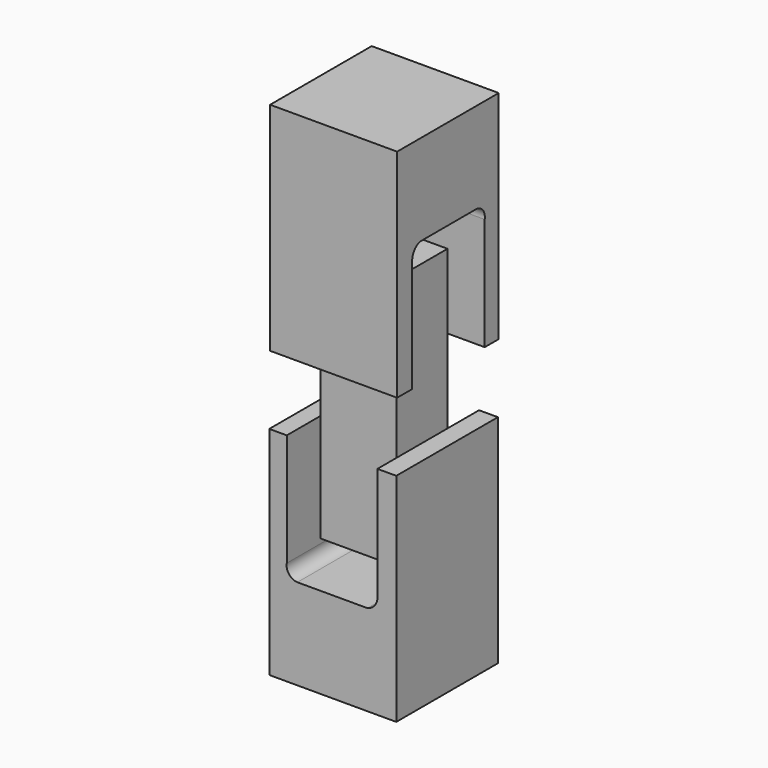
from build123d import *

# Parameters (mm, degrees)
PAD_DEPTH               = 15
SKETCH001_R             = 5
POCKET_DEPTH            = 15
SKETCH002_R             = 5
POCKET001_DEPTH         = 15
SKETCH003_W             = 30
SKETCH003_H             = 51.179278
PAD001_DEPTH            = 30
POCKET002_DEPTH         = 31
BODY001_PLACEMENT_ANGLE = 90
SKETCH005_W             = 30
SKETCH005_H             = 51.179278
PAD002_DEPTH            = 30
POCKET003_DEPTH         = 31
BODY002_PLACEMENT_ANGLE = 180


with BuildPart() as block:
    # Sketch → Pad (new body)
    with BuildSketch(Plane.XZ):
        Polygon((-10.5, 30), (7.5, 30), (7.5, 0), (7.5, -30), (-10.5, -30), align=None)
    extrude(amount=PAD_DEPTH)

    # Sketch001 → Pocket (cut)
    with BuildSketch(Plane.XZ):
        with Locations((-1.5, 22)):
            Circle(SKETCH001_R)
    extrude(amount=POCKET_DEPTH, mode=Mode.SUBTRACT)

    # Sketch002 → Pocket001 (cut, symmetric)
    with BuildSketch(Plane.YZ):
        with Locations((-7.5, -22)):
            Circle(SKETCH002_R)
    extrude(amount=POCKET001_DEPTH, both=True, mode=Mode.SUBTRACT)


with BuildPart() as block_1:
    # Body placement: moved
    add(block.part.moved(Location((2, -8, 8))))


with BuildPart() as yoke1:
    # Sketch003 → Pad001 (new body)
    with BuildSketch(Plane.XZ):
        with Locations((0, 44.070052)):
            Rectangle(SKETCH003_W, SKETCH003_H)
    extrude(amount=PAD001_DEPTH)

    # Sketch004 → Pocket002 (cut)
    with BuildSketch(Plane.XZ):
        with BuildLine():
            Line((-10.551908, 18.237621), (-10.551908, 45.044963))
            ThreePointArc((-8.209527, 48.216294), (-9.949356, 47.050631), (-10.551908, 45.044963))
            Line((-8.209527, 48.216294), (8.362818, 48.216294))
            ThreePointArc((10.863154, 45.044965), (10.326216, 47.192953), (8.362818, 48.216294))
            Line((10.863154, 45.044965), (10.863154, 18.237621))
            Line((10.863154, 18.237621), (-10.551908, 18.237621))
        make_face()
    extrude(amount=POCKET002_DEPTH, mode=Mode.SUBTRACT)


with BuildPart() as yoke1_1:
    # Body001 placement: moved
    add(yoke1.part.moved(Location((-14, -16, 0))).rotate(Axis((-14, -16, 0), (0, 0, 1)), BODY001_PLACEMENT_ANGLE))


with BuildPart() as yoke002:
    # Sketch005 → Pad002 (new body)
    with BuildSketch(Plane.XZ):
        with Locations((0, 44.070052)):
            Rectangle(SKETCH005_W, SKETCH005_H)
    extrude(amount=PAD002_DEPTH)

    # Sketch006 → Pocket003 (cut)
    with BuildSketch(Plane.XZ):
        with BuildLine():
            Line((-10.551908, 18.237621), (-10.551908, 45.044963))
            ThreePointArc((-8.209527, 48.216294), (-9.949356, 47.050631), (-10.551908, 45.044963))
            Line((-8.209527, 48.216294), (8.362818, 48.216294))
            ThreePointArc((10.863154, 45.044965), (10.326216, 47.192953), (8.362818, 48.216294))
            Line((10.863154, 45.044965), (10.863154, 18.237621))
            Line((10.863154, 18.237621), (-10.551908, 18.237621))
        make_face()
    extrude(amount=POCKET003_DEPTH, mode=Mode.SUBTRACT)


with BuildPart() as yoke002_1:
    # Body002 placement: moved
    add(yoke002.part.moved(Location((0, 0, 20))).rotate(Axis((0, 0, 20), (0, 1, 0)), BODY002_PLACEMENT_ANGLE))


solid = Compound([block_1.part, yoke1_1.part, yoke002_1.part])
